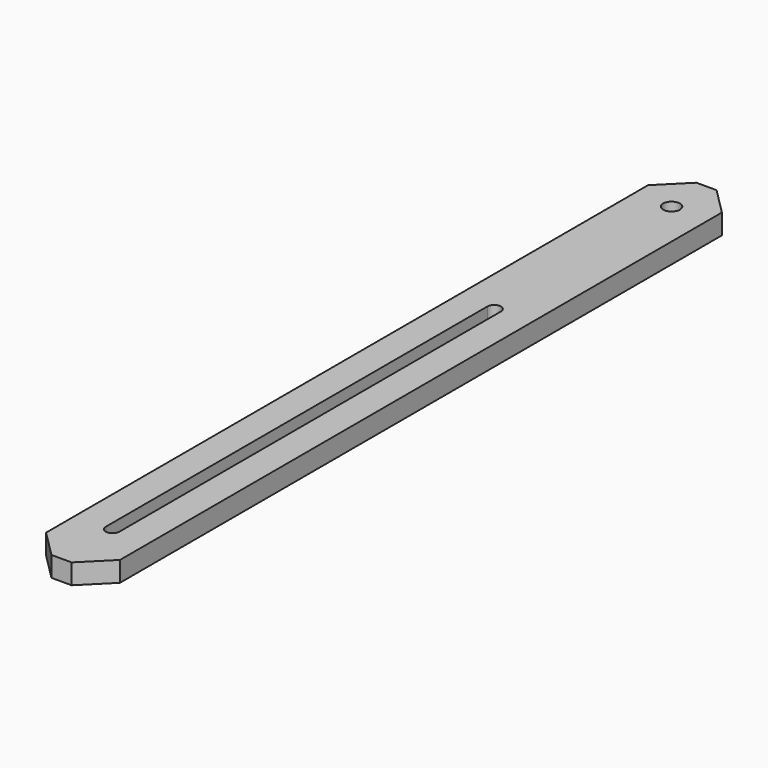
from build123d import *

# Parameters (mm, degrees)
F0_R     = 3.96875
F1_DEPTH = 9.525


with BuildPart() as f1:
    # F0 (on Top) → F1 (new body)
    with BuildSketch(Plane.XY):
        Polygon((4.7625, 190.5), (-4.7625, 190.5), (-17.4625, 177.8), (-17.4625, -177.8), (-4.7625, -190.5), (4.7625, -190.5), (17.4625, -177.8), (17.4625, 177.8), align=None)
        with BuildLine():
            ThreePointArc((3.2004, -160.3375), (0, -163.5379), (-3.2004, -160.3375))
            Line((-3.2004, -160.3375), (-3.2004, 65.0748))
            ThreePointArc((-3.2004, 65.0748), (0, 68.2752), (3.2004, 65.0748))
            Line((3.2004, 65.0748), (3.2004, -160.3375))
        make_face(mode=Mode.SUBTRACT)
        with Locations((0, 169.8625)):
            Circle(F0_R, mode=Mode.SUBTRACT)
    extrude(amount=F1_DEPTH)


solid = f1.part
